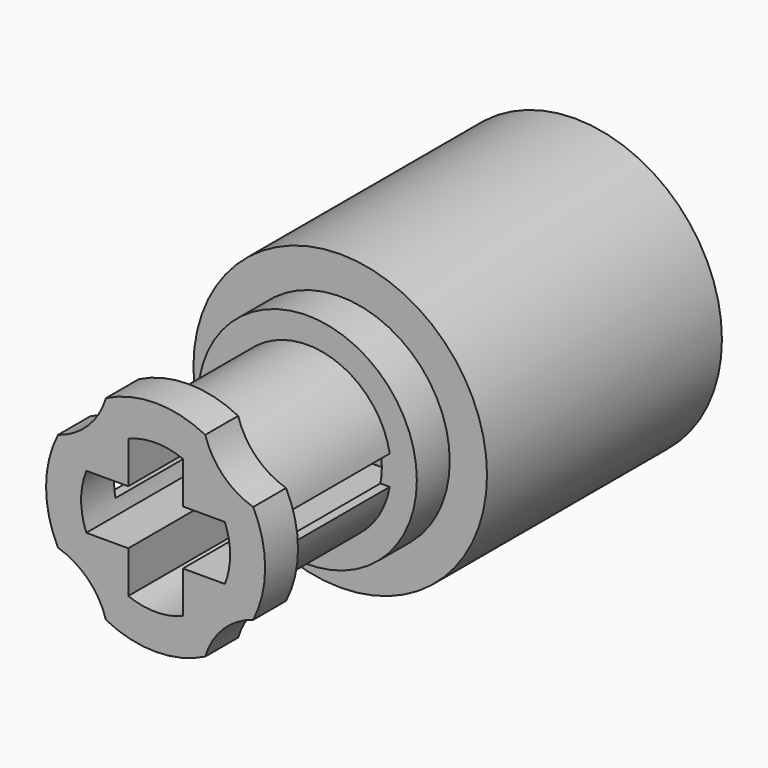
from build123d import *

# Parameters (mm, degrees)
F0_R      = 3.73
F3_DEPTH  = 1.4
F2_R      = 2.85
F4_DEPTH  = 1.4
F1_R      = 2.85
F5_DEPTH  = 7.86
F6_DEPTH  = 7.86
F7_DEPTH  = 7.86
F8_DEPTH  = 7.86
F9_DEPTH  = 7.86
F10_R     = 2.85
F11_DEPTH = 1.4
F12_W     = 5.06
F12_H     = 1
F13_DEPTH = 8
F14_W     = 5.06
F14_H     = 1
F15_DEPTH = 8
F17_R     = 5
F18_DEPTH = 10
F20_DEPTH = 6.5


with BuildPart() as f3:
    # F0 (on Front) → F3 (new body)
    with BuildSketch(Plane.XZ):
        Circle(F0_R)
    extrude(amount=F3_DEPTH)

    # F2 (on Front) → F4 (cut)
    with BuildSketch(Plane.XZ):
        Circle(F2_R)
    extrude(amount=F4_DEPTH, mode=Mode.SUBTRACT)

    # F1 (on Front) → F5 (join)
    with BuildSketch(Plane.XZ):
        Circle(F1_R)
        with BuildLine():
            ThreePointArc((-0.93, 2.36), (0, 2.536632), (0.93, 2.36))
            ThreePointArc((0.93, 2.36), (1.793669, 1.793669), (2.36, 0.93))
            ThreePointArc((2.36, 0.93), (2.492083, 0.473312), (2.536632, 0))
            ThreePointArc((2.536632, 0), (2.492083, -0.473312), (2.36, -0.93))
            ThreePointArc((2.36, -0.93), (1.793669, -1.793669), (0.93, -2.36))
            ThreePointArc((0.93, -2.36), (0, -2.536632), (-0.93, -2.36))
            ThreePointArc((-0.93, -2.36), (-1.793669, -1.793669), (-2.36, -0.93))
            ThreePointArc((-2.36, -0.93), (-2.536632, 0), (-2.36, 0.93))
            ThreePointArc((-2.36, 0.93), (-1.793669, 1.793669), (-0.93, 2.36))
        make_face(mode=Mode.SUBTRACT)
    extrude(amount=F5_DEPTH)

    # F1 (on Front) → F6 (join)
    with BuildSketch(Plane.XZ):
        with BuildLine():
            ThreePointArc((2.36, 0.93), (1.793669, 1.793669), (0.93, 2.36))
            Line((0.93, 2.36), (0.93, 0.93))
            Line((0.93, 0.93), (2.36, 0.93))
        make_face()
    extrude(amount=F6_DEPTH)

    # F1 (on Front) → F7 (join)
    with BuildSketch(Plane.XZ):
        with BuildLine():
            Line((-0.93, -0.93), (-2.36, -0.93))
            ThreePointArc((-2.36, -0.93), (-1.793669, -1.793669), (-0.93, -2.36))
            Line((-0.93, -2.36), (-0.93, -0.93))
        make_face()
    extrude(amount=F7_DEPTH)

    # F1 (on Front) → F8 (join)
    with BuildSketch(Plane.XZ):
        with BuildLine():
            Line((-0.93, 0.93), (-0.93, 2.36))
            ThreePointArc((-0.93, 2.36), (-1.793669, 1.793669), (-2.36, 0.93))
            Line((-2.36, 0.93), (-0.93, 0.93))
        make_face()
    extrude(amount=F8_DEPTH)

    # F1 (on Front) → F9 (join)
    with BuildSketch(Plane.XZ):
        with BuildLine():
            ThreePointArc((0.93, -2.36), (1.793669, -1.793669), (2.36, -0.93))
            Line((2.36, -0.93), (0.93, -0.93))
            Line((0.93, -0.93), (0.93, -2.36))
        make_face()
    extrude(amount=F9_DEPTH)

    # F10 (on face) → F11 (join)
    with BuildSketch(Plane.XZ.offset(7.86)):
        with BuildLine():
            ThreePointArc((-1.691716, 3.324304), (-2.301731, 2.301731), (-3.324304, 1.691716))
            ThreePointArc((-3.324304, 1.691716), (-3.73, 0), (-3.324304, -1.691716))
            ThreePointArc((-3.324304, -1.691716), (-2.301731, -2.301731), (-1.691716, -3.324304))
            ThreePointArc((-1.691716, -3.324304), (0, -3.73), (1.691716, -3.324304))
            ThreePointArc((1.691716, -3.324304), (2.301731, -2.301731), (3.324304, -1.691716))
            ThreePointArc((3.324304, -1.691716), (3.73, 0), (3.324304, 1.691716))
            ThreePointArc((3.324304, 1.691716), (2.301731, 2.301731), (1.691716, 3.324304))
            ThreePointArc((1.691716, 3.324304), (0, 3.73), (-1.691716, 3.324304))
        make_face()
        Circle(F10_R, mode=Mode.SUBTRACT)
    extrude(amount=-F11_DEPTH)

    # F12 (on Right) → F13 (cut)
    with BuildSketch(Plane.YZ):
        with Locations((-3.93, 0)):
            Rectangle(F12_W, F12_H)
    extrude(amount=-F13_DEPTH, mode=Mode.SUBTRACT)

    # F14 (on Right) → F15 (cut)
    with BuildSketch(Plane.YZ):
        with Locations((-3.93, 0)):
            Rectangle(F14_W, F14_H)
    extrude(amount=F15_DEPTH, mode=Mode.SUBTRACT)

    # F17 (on offset) → F18 (join)
    with BuildSketch(Plane.XZ.offset(-10)):
        Circle(F17_R)
    extrude(amount=F18_DEPTH)

    # F19 (on offset) → F20 (cut)
    with BuildSketch(Plane.XZ.offset(-10)):
        with BuildLine():
            Line((2, 1.5), (-2, 1.5))
            ThreePointArc((-2, 1.5), (-2.5, 0), (-2, -1.5))
            Line((-2, -1.5), (2, -1.5))
            ThreePointArc((2, -1.5), (2.5, 0), (2, 1.5))
        make_face()
    extrude(amount=F20_DEPTH, mode=Mode.SUBTRACT)


solid = f3.part
